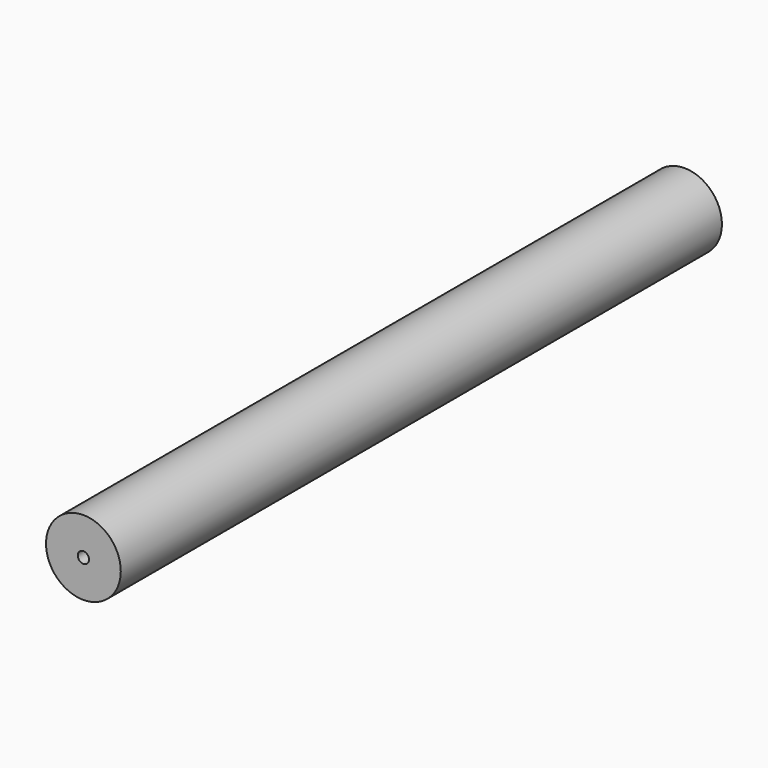
from build123d import *

# Parameters (mm, degrees)
F0_R     = 99.5
F0_R_2   = 53.4088434814
F0_R_3   = 15
F1_DEPTH = 1000


with BuildPart() as f1:
    # F0 (on Front) → F1 (new body, symmetric)
    with BuildSketch(Plane.XZ):
        Circle(F0_R)
        Circle(F0_R_2, mode=Mode.SUBTRACT)
        Circle(F0_R_2)
        Circle(F0_R_3, mode=Mode.SUBTRACT)
    extrude(amount=F1_DEPTH, both=True)


solid = f1.part
